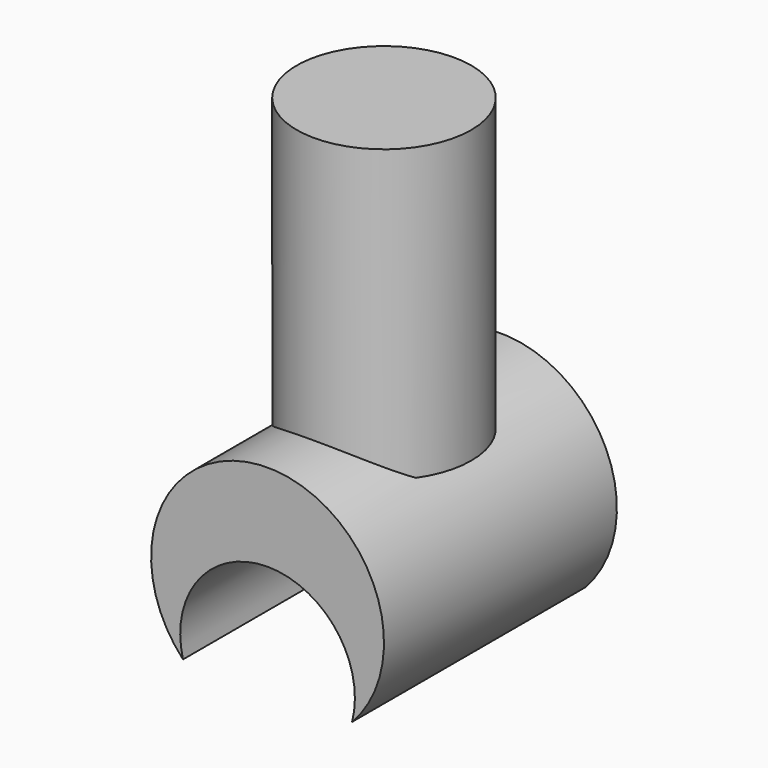
from build123d import *

# Parameters (mm, degrees)
F1_DEPTH = 2.5
F2_R     = 1.5
F3_DEPTH = 5


with BuildPart() as f1:
    # F0 (on Front) → F1 (new body, symmetric)
    with BuildSketch(Plane.XZ):
        with BuildLine():
            ThreePointArc((-1.452369, -2.94996), (0, -1.07496), (1.452369, -2.94996))
            ThreePointArc((1.452369, -2.94996), (0, 0.42504), (-1.452369, -2.94996))
        make_face()
    extrude(amount=F1_DEPTH, both=True)

    # F2 (on Top) → F3 (join)
    with BuildSketch(Plane.XY):
        Circle(F2_R)
    extrude(amount=F3_DEPTH)


solid = f1.part
